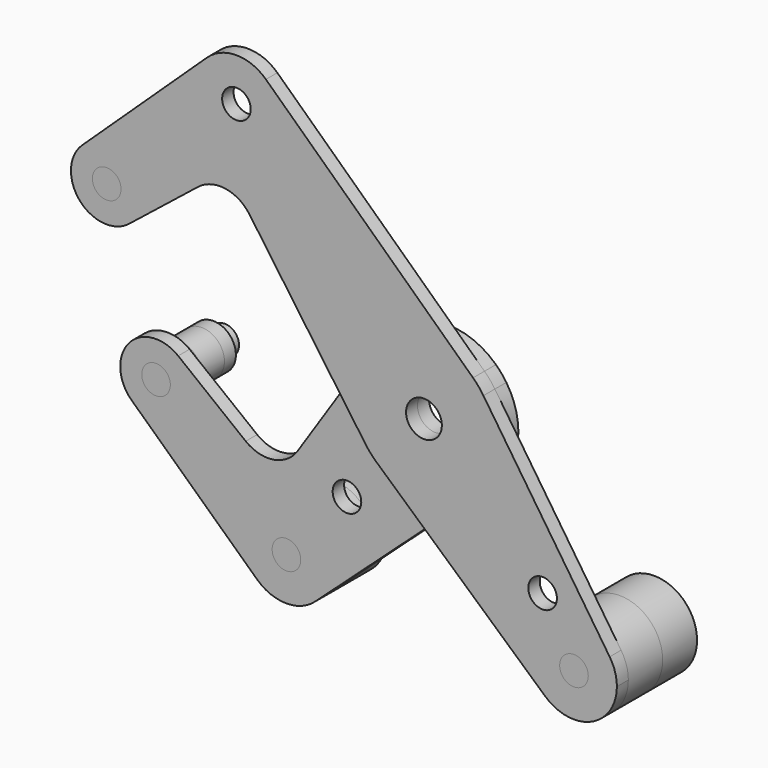
from build123d import *

# Parameters (mm, degrees)
F0_R     = 3.175
F0_R_2   = 3.96875
F2_DEPTH = 3.175
F3_DEPTH = 3.175
F4_R     = 9.525
F6_DEPTH = 12.7
F4_R_2   = 3.9751
F5_R     = 9.525
F5_R_2   = 5.0165


with BuildPart() as f2:
    # F0 (on Front) → F2 (new body)
    with BuildSketch(Plane.XZ):
        with BuildLine():
            ThreePointArc((26.9262440233, -45.4676864135), (37.1682864336, -47.0737686401), (42.8102251661, -38.3762138003))
            ThreePointArc((42.8102251661, -38.3762138003), (42.3999454948, -35.6108027404), (41.2044512386, -33.0836262089))
            ThreePointArc((41.2044512386, -33.0836262089), (27.0442454474, -31.1806737127), (26.9262440233, -45.4676864135))
        make_face()
        with Locations((33.2852251661, -38.3762138003)):
            Circle(F0_R, mode=Mode.SUBTRACT)
        with BuildLine():
            ThreePointArc((-32.0815314576, 47.9702672503), (-32.8608164346, 51.7436071154), (-35.0711574392, 54.8995176744))
            ThreePointArc((-35.0711574392, 54.8995176744), (-41.6065314576, 57.4952672503), (-48.1419054761, 54.8995176744))
            ThreePointArc((-48.1419054761, 54.8995176744), (-45.3798713227, 39.2245522274), (-32.0815314576, 47.9702672503))
        make_face()
        with Locations((-41.6065314576, 47.9702672503)):
            Circle(F0_R, mode=Mode.SUBTRACT)
        with BuildLine():
            ThreePointArc((-62.4511918078, 23.0063483758), (-67.2442419203, 30.2944442282), (-75.8348368232, 28.7807237291))
            ThreePointArc((-75.8348368232, 28.7807237291), (-76.3849752141, 17.8055319436), (-65.4422370763, 16.798571653))
            ThreePointArc((-65.4422370763, 16.798571653), (-63.237943921, 19.5609585706), (-62.4511918078, 23.0063483758))
        make_face()
        with Locations((-70.3886918078, 23.0063483758)):
            Circle(F0_R, mode=Mode.SUBTRACT)
        with BuildLine():
            ThreePointArc((-12.9726166036, -9.1502373442), (-15.8730587934, -0.2482529814), (-13.2524193062, 8.7400805221))
            Line((-13.2524193062, 8.7400805221), (-19.2147683858, -0.3005169703))
            Line((-19.2147683858, -0.3005169703), (-12.9726166036, -9.1502373442))
        make_face()
        with BuildLine():
            Line((-10.5983019047, -11.8191210221), (0.0653932355, -21.3813431455))
            Line((0.0653932355, -21.3813431455), (10.6703987497, -11.7540722953))
            ThreePointArc((10.6703987497, -11.7540722953), (0.0485522706, -15.8749257534), (-10.5983019047, -11.8191210221))
        make_face()
        with BuildLine():
            ThreePointArc((26.9262440233, -45.4676864135), (27.0442454474, -31.1806737127), (41.2044512386, -33.0836262089))
            Line((41.2044512386, -33.0836262089), (13.1987101208, 8.820979319))
            ThreePointArc((13.1987101208, 8.820979319), (15.1912005478, 4.609018433), (15.875, 0))
            ThreePointArc((15.875, 0), (14.5156502636, -6.4274040191), (10.6703987497, -11.7540722953))
            Line((10.6703987497, -11.7540722953), (0.0653932355, -21.3813431455))
            Line((0.0653932355, -21.3813431455), (26.9262440233, -45.4676864135))
        make_face()
        with Locations((26.3222689506, -25.5025770961)):
            Circle(F0_R, mode=Mode.SUBTRACT)
        with BuildLine():
            ThreePointArc((-13.2524193062, 8.7400805221), (-1.834314477, 15.7686687897), (10.8922900307, 11.5487507067))
            Line((10.8922900307, 11.5487507067), (-35.0711574392, 54.8995176744))
            ThreePointArc((-35.0711574392, 54.8995176744), (-32.8608164346, 51.7436071154), (-32.0815314576, 47.9702672503))
            ThreePointArc((-32.0815314576, 47.9702672503), (-45.3798713227, 39.2245522274), (-48.1419054761, 54.8995176744))
            Line((-48.1419054761, 54.8995176744), (-75.8348368232, 28.7807237291))
            ThreePointArc((-75.8348368232, 28.7807237291), (-67.2442419203, 30.2944442282), (-62.4511918078, 23.0063483758))
            ThreePointArc((-62.4511918078, 23.0063483758), (-63.237943921, 19.5609585706), (-65.4422370763, 16.798571653))
            Line((-65.4422370763, 16.798571653), (-50.1509863937, 28.9828821829))
            ThreePointArc((-50.1509863937, 28.9828821829), (-44.0823996147, 30.6328866939), (-38.7182233604, 27.3502241323))
            Line((-38.7182233604, 27.3502241323), (-19.2147683858, -0.3005169703))
            Line((-19.2147683858, -0.3005169703), (-13.2524193062, 8.7400805221))
        make_face()
        with BuildLine():
            ThreePointArc((15.875, 0), (15.1912005478, 4.609018433), (13.1987101208, 8.820979319))
            ThreePointArc((13.1987101208, 8.820979319), (12.1224690662, 10.2499448164), (10.8922900307, 11.5487507067))
            ThreePointArc((10.8922900307, 11.5487507067), (-1.834314477, 15.7686687897), (-13.2524193062, 8.7400805221))
            ThreePointArc((-13.2524193062, 8.7400805221), (-15.8730587934, -0.2482529814), (-12.9726166036, -9.1502373442))
            ThreePointArc((-12.9726166036, -9.1502373442), (-11.8607666217, -10.5516747555), (-10.5983019047, -11.8191210221))
            ThreePointArc((-10.5983019047, -11.8191210221), (0.0485522706, -15.8749257534), (10.6703987497, -11.7540722953))
            ThreePointArc((10.6703987497, -11.7540722953), (14.5156502636, -6.4274040191), (15.875, 0))
        make_face()
        Circle(F0_R_2, mode=Mode.SUBTRACT)
    extrude(amount=F2_DEPTH)


with BuildPart() as f3:
    # F0 (on Front) → F3 (new body)
    with BuildSketch(Plane.XZ):
        with BuildLine():
            ThreePointArc((15.875, 0), (15.1912005478, 4.609018433), (13.1987101208, 8.820979319))
            ThreePointArc((13.1987101208, 8.820979319), (12.1224690662, 10.2499448164), (10.8922900307, 11.5487507067))
            ThreePointArc((10.8922900307, 11.5487507067), (-1.834314477, 15.7686687897), (-13.2524193062, 8.7400805221))
            ThreePointArc((-13.2524193062, 8.7400805221), (-15.8730587934, -0.2482529814), (-12.9726166036, -9.1502373442))
            ThreePointArc((-12.9726166036, -9.1502373442), (-11.8607666217, -10.5516747555), (-10.5983019047, -11.8191210221))
            ThreePointArc((-10.5983019047, -11.8191210221), (0.0485522706, -15.8749257534), (10.6703987497, -11.7540722953))
            ThreePointArc((10.6703987497, -11.7540722953), (14.5156502636, -6.4274040191), (15.875, 0))
        make_face()
        Circle(F0_R_2, mode=Mode.SUBTRACT)
        with BuildLine():
            Line((-10.5983019047, -11.8191210221), (0.0653932355, -21.3813431455))
            Line((0.0653932355, -21.3813431455), (10.6703987497, -11.7540722953))
            ThreePointArc((10.6703987497, -11.7540722953), (0.0485522706, -15.8749257534), (-10.5983019047, -11.8191210221))
        make_face()
        with BuildLine():
            ThreePointArc((-12.9726166036, -9.1502373442), (-15.8730587934, -0.2482529814), (-13.2524193062, 8.7400805221))
            Line((-13.2524193062, 8.7400805221), (-19.2147683858, -0.3005169703))
            Line((-19.2147683858, -0.3005169703), (-12.9726166036, -9.1502373442))
        make_face()
        with BuildLine():
            Line((-26.647623873, -45.6315380732), (0.0653932355, -21.3813431455))
            Line((0.0653932355, -21.3813431455), (-10.5983019047, -11.8191210221))
            ThreePointArc((-10.5983019047, -11.8191210221), (-11.8607666217, -10.5516747555), (-12.9726166036, -9.1502373442))
            Line((-12.9726166036, -9.1502373442), (-19.2147683858, -0.3005169703))
            Line((-19.2147683858, -0.3005169703), (-30.5474012326, -17.4839744853))
            ThreePointArc((-30.5474012326, -17.4839744853), (-35.9047663103, -20.9493627188), (-42.0820013957, -19.3518512525))
            Line((-42.0820013957, -19.3518512525), (-57.0757936348, -7.5537803256))
            ThreePointArc((-57.0757936348, -7.5537803256), (-54.8440071189, -10.3244537385), (-54.0466841448, -13.7916973539))
            ThreePointArc((-54.0466841448, -13.7916973539), (-58.817458973, -21.070142101), (-67.394906617, -19.5992776228))
            Line((-67.394906617, -19.5992776228), (-39.5427300894, -45.5481910186))
            ThreePointArc((-39.5427300894, -45.5481910186), (-36.849933329, -29.8449609995), (-23.5248631228, -38.579094696))
            ThreePointArc((-23.5248631228, -38.579094696), (-24.3404729646, -42.4355371074), (-26.647623873, -45.6315380732))
        make_face()
        with Locations((-19.6233562292, -22.9063374758)):
            Circle(F0_R, mode=Mode.SUBTRACT)
        with BuildLine():
            ThreePointArc((-39.5427300894, -45.5481910186), (-33.1114263313, -48.1038957423), (-26.647623873, -45.6315380732))
            ThreePointArc((-26.647623873, -45.6315380732), (-24.3404729646, -42.4355371074), (-23.5248631228, -38.579094696))
            ThreePointArc((-23.5248631228, -38.579094696), (-36.849933329, -29.8449609995), (-39.5427300894, -45.5481910186))
        make_face()
        with Locations((-33.0498631228, -38.579094696)):
            Circle(F0_R, mode=Mode.SUBTRACT)
        with BuildLine():
            ThreePointArc((-57.0757936348, -7.5537803256), (-68.0121676911, -8.627656241), (-67.394906617, -19.5992776228))
            ThreePointArc((-67.394906617, -19.5992776228), (-58.817458973, -21.070142101), (-54.0466841448, -13.7916973539))
            ThreePointArc((-54.0466841448, -13.7916973539), (-54.8440071189, -10.3244537385), (-57.0757936348, -7.5537803256))
        make_face()
        with Locations((-61.9841841448, -13.7916973539)):
            Circle(F0_R, mode=Mode.SUBTRACT)
    extrude(amount=-F3_DEPTH)


with BuildPart() as f6:
    # F4 (on face) → F6 (new body, through all)
    with BuildSketch(Plane.XZ.offset(3.175)):
        with Locations((33.2852251661, -38.3762138003)):
            Circle(F4_R)
    extrude(amount=-F6_DEPTH)

    # F7: cut F3, F2
    add(f3.part, mode=Mode.SUBTRACT)
    add(f2.part, mode=Mode.SUBTRACT)



with BuildPart() as f6b:
    # F4 (on face) → F6, piece 2 (new body, through all)
    with BuildSketch(Plane.XZ.offset(3.175)):
        with Locations((-70.3886918078, 23.0063483758)):
            Circle(F4_R_2)
    extrude(amount=-F6_DEPTH)

    # F7: cut F3, F2
    add(f3.part, mode=Mode.SUBTRACT)
    add(f2.part, mode=Mode.SUBTRACT)


with BuildPart() as f6c:
    # F5 (on face) → F6, piece 3 (new body, through all)
    with BuildSketch(Plane.XZ):
        with Locations((-33.0498631228, -38.579094696)):
            Circle(F5_R)
    extrude(amount=-F6_DEPTH)

    # F7: cut F3, F2
    add(f3.part, mode=Mode.SUBTRACT)
    add(f2.part, mode=Mode.SUBTRACT)


with BuildPart() as f6d:
    # F5 (on face) → F6, piece 4 (new body, through all)
    with BuildSketch(Plane.XZ):
        with Locations((-61.9841841448, -13.7916973539)):
            Circle(F5_R_2)
    extrude(amount=-F6_DEPTH)

    # F7: cut F3, F2
    add(f3.part, mode=Mode.SUBTRACT)
    add(f2.part, mode=Mode.SUBTRACT)


with BuildPart() as f6_1:
    add(f6.part)

    add(f6b.part)  # F8 merges F6b

    add(f6c.part)  # F8 merges F6c

    add(f6d.part)  # F8 merges F6d
    # F8: F6b, F6d, F6c, F6 across plane
    add(f6b.part.mirror(Plane.XZ.offset(-9.525)))
    add(f6d.part.mirror(Plane.XZ.offset(-9.525)))
    add(f6c.part.mirror(Plane.XZ.offset(-9.525)))
    add(f6.part.mirror(Plane.XZ.offset(-9.525)))


solid = Compound([f2.part, f3.part, f6_1.part])
